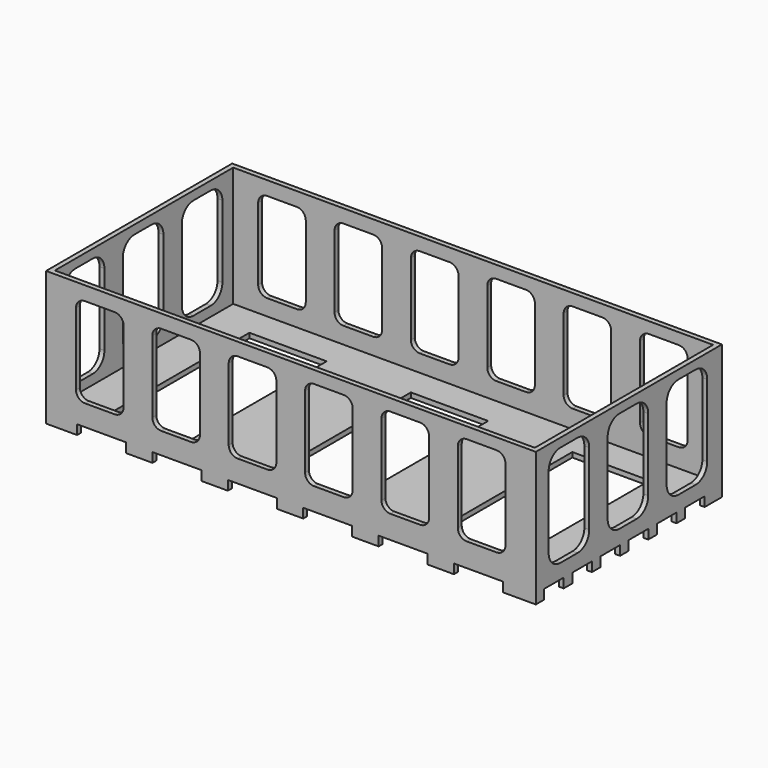
from build123d import *

# Parameters (mm, degrees)
SKETCH_W        = 200
SKETCH_H        = 95
PAD_DEPTH       = 50
PAD_DEPTH_BACK  = 13
SKETCH001_W     = 196
SKETCH001_H     = 91
POCKET_DEPTH    = 49
SKETCH002_W     = 196
SKETCH002_H     = 91
POCKET001_DEPTH = 12
SKETCH003_W     = 10
SKETCH003_H     = 13.530718
POCKET002_DEPTH = 200.001
SKETCH004_W     = 20
SKETCH004_H     = 19.659128
POCKET003_DEPTH = 95.001
SKETCH005_W     = 121.784546
SKETCH005_H     = 10.903322
POCKET004_DEPTH = 200.001
SKETCH006_W     = 31.569817
SKETCH006_H     = 69.401402
POCKET005_DEPTH = 5
POCKET006_DEPTH = 200.001
POCKET007_DEPTH = 95.001


with BuildPart() as part:
    # Sketch → Pad (new body, two sides)
    with BuildSketch(Plane.XY) as pad_sk:
        with Locations((-26.840514, -0.835007)):
            Rectangle(SKETCH_W, SKETCH_H)
    extrude(amount=PAD_DEPTH)
    extrude(pad_sk.sketch, amount=-PAD_DEPTH_BACK)

    # Sketch001 (on Face6 of Pad) → Pocket (cut)
    with BuildSketch(Plane.XY.offset(50)):
        with Locations((-26.840514, -0.835007)):
            Rectangle(SKETCH001_W, SKETCH001_H)
    extrude(amount=-POCKET_DEPTH, mode=Mode.SUBTRACT)

    # Sketch002 (on Face4 of Pocket) → Pocket001 (cut)
    with BuildSketch(Plane(origin=(0, 0, -13), x_dir=(1, 0, 0), z_dir=(0, 0, -1))):
        with Locations((-26.840514, 0.835007)):
            Rectangle(SKETCH002_W, SKETCH002_H)
    extrude(amount=-POCKET001_DEPTH, mode=Mode.SUBTRACT)

    # Sketch003 (on Face6 of Pocket001) → Pocket002 (cut, through all)
    with BuildSketch(Plane.YZ.offset(73.159486)):
        with Locations((-39.115274, -7.765359)):
            Rectangle(SKETCH003_W, SKETCH003_H)
        with Locations((-24.717893, -7.765359)):
            Rectangle(SKETCH003_W, SKETCH003_H)
        with Locations((-10.320513, -7.765359)):
            Rectangle(SKETCH003_W, SKETCH003_H)
        with Locations((4.076868, -7.765359)):
            Rectangle(SKETCH003_W, SKETCH003_H)
        with Locations((18.474249, -7.765359)):
            Rectangle(SKETCH003_W, SKETCH003_H)
        with Locations((32.87163, -7.765359)):
            Rectangle(SKETCH003_W, SKETCH003_H)
    extrude(amount=-POCKET002_DEPTH, mode=Mode.SUBTRACT)

    # Sketch004 (on Face23 of Pocket002) → Pocket003 (cut, through all)
    with BuildSketch(Plane(origin=(0, 46.664993, 0), x_dir=(-1, 0, 0), z_dir=(0, 1, 0))):
        with Locations((-49.732418, -10.829564)):
            Rectangle(SKETCH004_W, SKETCH004_H)
        with Locations((-18.951519, -10.829564)):
            Rectangle(SKETCH004_W, SKETCH004_H)
        with Locations((11.82938, -10.829564)):
            Rectangle(SKETCH004_W, SKETCH004_H)
        with Locations((42.610279, -10.829564)):
            Rectangle(SKETCH004_W, SKETCH004_H)
        with Locations((73.391178, -10.829564)):
            Rectangle(SKETCH004_W, SKETCH004_H)
        with Locations((104.172077, -10.829564)):
            Rectangle(SKETCH004_W, SKETCH004_H)
    extrude(amount=-POCKET003_DEPTH, mode=Mode.SUBTRACT)

    # Sketch005 (on Face52 of Pocket003) → Pocket004 (cut, through all)
    with BuildSketch(Plane.YZ.offset(73.159486)):
        with Locations((-7.846138, -10.338292)):
            Rectangle(SKETCH005_W, SKETCH005_H)
    extrude(amount=-POCKET004_DEPTH, mode=Mode.SUBTRACT)

    # Sketch006 (on Face4 of Pocket004) → Pocket005 (cut)
    with BuildSketch(Plane(origin=(0, 0, -1), x_dir=(1, 0, 0), z_dir=(0, 0, -1))):
        with Locations((-92.549008, 2.371027)):
            Rectangle(SKETCH006_W, SKETCH006_H)
        with Locations((-26.614873, 2.371027)):
            Rectangle(SKETCH006_W, SKETCH006_H)
        with Locations((39.319259, 2.371027)):
            Rectangle(SKETCH006_W, SKETCH006_H)
    extrude(amount=-POCKET005_DEPTH, mode=Mode.SUBTRACT)

    # Sketch007 (on Face62 of Pocket005) → Pocket006 (cut, through all)
    with BuildSketch(Plane.YZ.offset(73.159486)):
        with BuildLine():
            Line((-41.786575, 40.445268), (-41.786575, 10.947214))
            ThreePointArc((-41.786575, 10.947214), (-40.037583, 6.724774), (-35.815143, 4.975782))
            Line((-35.815143, 4.975782), (-27.037547, 4.975782))
            ThreePointArc((-27.037547, 4.975782), (-22.815107, 6.724774), (-21.066115, 10.947214))
            Line((-21.066115, 10.947214), (-21.066115, 40.445268))
            ThreePointArc((-21.066115, 40.445268), (-22.815107, 44.667708), (-27.037547, 46.4167))
            Line((-27.037547, 46.4167), (-35.815143, 46.4167))
            ThreePointArc((-35.815143, 46.4167), (-40.037583, 44.667708), (-41.786575, 40.445268))
        make_face()
        with BuildLine():
            Line((-11.667148, 40.445266), (-11.667148, 10.947212))
            ThreePointArc((-11.667148, 10.947212), (-9.918155, 6.724771), (-5.695714, 4.975778))
            Line((-5.695714, 4.975778), (3.08188, 4.975778))
            ThreePointArc((3.08188, 4.975778), (7.304322, 6.724771), (9.053314, 10.947212))
            Line((9.053314, 10.947212), (9.053314, 40.445266))
            ThreePointArc((9.053314, 40.445266), (7.304322, 44.667707), (3.08188, 46.4167))
            Line((3.08188, 46.4167), (-5.695714, 46.4167))
            ThreePointArc((-5.695714, 46.4167), (-9.918155, 44.667707), (-11.667148, 40.445266))
        make_face()
        with BuildLine():
            Line((18.452276, 40.445266), (18.452276, 10.947216))
            ThreePointArc((18.452276, 10.947216), (20.201268, 6.724775), (24.42371, 4.975782))
            Line((24.42371, 4.975782), (33.201306, 4.975782))
            ThreePointArc((33.201306, 4.975782), (37.423748, 6.724775), (39.17274, 10.947216))
            Line((39.17274, 10.947216), (39.17274, 40.445266))
            ThreePointArc((39.17274, 40.445266), (37.423748, 44.667707), (33.201306, 46.4167))
            Line((33.201306, 46.4167), (24.42371, 46.4167))
            ThreePointArc((24.42371, 46.4167), (20.201268, 44.667707), (18.452276, 40.445266))
        make_face()
    extrude(amount=-POCKET006_DEPTH, mode=Mode.SUBTRACT)

    # Sketch008 (on Face7 of Pocket006) → Pocket007 (cut, through all)
    with BuildSketch(Plane.XZ.offset(48.335007)):
        with BuildLine():
            Line((-114.63212, 40.657974), (-114.63212, 11.20974))
            ThreePointArc((-114.63212, 11.20974), (-113.564056, 8.631204), (-110.98552, 7.56314))
            Line((-110.98552, 7.56314), (-98.839936, 7.56314))
            ThreePointArc((-98.839936, 7.56314), (-96.2614, 8.631204), (-95.193336, 11.20974))
            Line((-95.193336, 11.20974), (-95.193336, 40.657974))
            ThreePointArc((-95.193336, 40.657974), (-96.2614, 43.23651), (-98.839936, 44.304574))
            Line((-98.839936, 44.304574), (-110.98552, 44.304574))
            ThreePointArc((-110.98552, 44.304574), (-113.564056, 43.23651), (-114.63212, 40.657974))
        make_face()
        with BuildLine():
            Line((-83.44462, 40.871587), (-83.44462, 11.423354))
            ThreePointArc((-83.44462, 11.423354), (-82.376555, 8.844818), (-79.798019, 7.776753))
            Line((-79.798019, 7.776753), (-67.652436, 7.776753))
            ThreePointArc((-67.652436, 7.776753), (-65.0739, 8.844818), (-64.005835, 11.423354))
            Line((-64.005835, 11.423354), (-64.005835, 40.871587))
            ThreePointArc((-64.005835, 40.871587), (-65.0739, 43.450123), (-67.652436, 44.518188))
            Line((-67.652436, 44.518188), (-79.798019, 44.518188))
            ThreePointArc((-79.798019, 44.518188), (-82.376555, 43.450123), (-83.44462, 40.871587))
        make_face()
        with BuildLine():
            Line((-52.25712, 41.0852), (-52.25712, 11.636967))
            ThreePointArc((-52.25712, 11.636967), (-51.189055, 9.058431), (-48.610519, 7.990366))
            Line((-48.610519, 7.990366), (-36.464936, 7.990366))
            ThreePointArc((-36.464936, 7.990366), (-33.8864, 9.058431), (-32.818335, 11.636967))
            Line((-32.818335, 11.636967), (-32.818335, 41.0852))
            ThreePointArc((-32.818335, 41.0852), (-33.8864, 43.663736), (-36.464936, 44.731801))
            Line((-36.464936, 44.731801), (-48.610519, 44.731801))
            ThreePointArc((-48.610519, 44.731801), (-51.189055, 43.663736), (-52.25712, 41.0852))
        make_face()
        with BuildLine():
            Line((-21.06962, 41.298814), (-21.06962, 11.85058))
            ThreePointArc((-21.06962, 11.85058), (-20.001555, 9.272043), (-17.423019, 8.203979))
            Line((-17.423019, 8.203979), (-5.277436, 8.203979))
            ThreePointArc((-5.277436, 8.203979), (-2.6989, 9.272043), (-1.630835, 11.85058))
            Line((-1.630835, 11.85058), (-1.630835, 41.298814))
            ThreePointArc((-1.630835, 41.298814), (-2.6989, 43.87735), (-5.277436, 44.945415))
            Line((-5.277436, 44.945415), (-17.423019, 44.945415))
            ThreePointArc((-17.423019, 44.945415), (-20.001555, 43.87735), (-21.06962, 41.298814))
        make_face()
        with BuildLine():
            Line((10.11788, 41.512427), (10.11788, 12.064194))
            ThreePointArc((10.11788, 12.064194), (11.185945, 9.485658), (13.764481, 8.417593))
            Line((13.764481, 8.417593), (25.910064, 8.417593))
            ThreePointArc((25.910064, 8.417593), (28.488601, 9.485658), (29.556665, 12.064194))
            Line((29.556665, 12.064194), (29.556665, 41.512427))
            ThreePointArc((29.556665, 41.512427), (28.488601, 44.090963), (25.910064, 45.159028))
            Line((25.910064, 45.159028), (13.764481, 45.159028))
            ThreePointArc((13.764481, 45.159028), (11.185945, 44.090963), (10.11788, 41.512427))
        make_face()
        with BuildLine():
            Line((41.30538, 41.72604), (41.30538, 12.277808))
            ThreePointArc((41.30538, 12.277808), (42.373445, 9.699271), (44.951982, 8.631206))
            Line((44.951982, 8.631206), (57.097562, 8.631206))
            ThreePointArc((57.097562, 8.631206), (59.676099, 9.699271), (60.744164, 12.277808))
            Line((60.744164, 12.277808), (60.744164, 41.72604))
            ThreePointArc((60.744164, 41.72604), (59.676099, 44.304577), (57.097562, 45.372642))
            Line((57.097562, 45.372642), (44.951982, 45.372642))
            ThreePointArc((44.951982, 45.372642), (42.373445, 44.304577), (41.30538, 41.72604))
        make_face()
    extrude(amount=-POCKET007_DEPTH, mode=Mode.SUBTRACT)


solid = part.part
